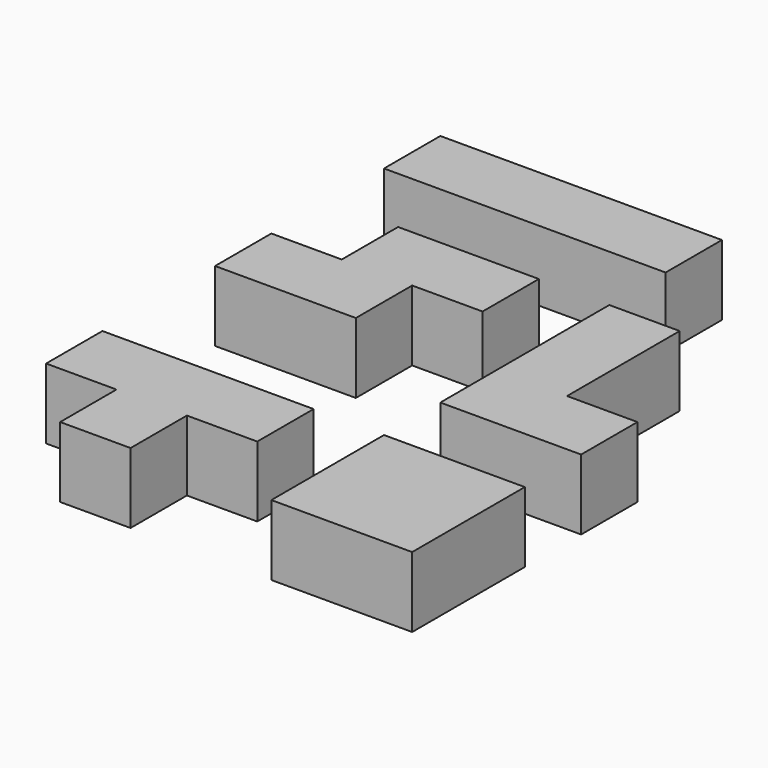
from build123d import *

# Parameters (mm, degrees)
BOX_W        = 40
BOX_H        = 10
BOX_DEPTH    = 10
BOX003_W     = 10
BOX003_H     = 10
BOX003_DEPTH = 10
BOX002_W     = 10
BOX002_H     = 10
BOX002_DEPTH = 10
BOX001_W     = 20
BOX001_H     = 10
BOX001_DEPTH = 10
BOX005_W     = 10
BOX005_H     = 10
BOX005_DEPTH = 10
BOX006_W     = 10
BOX006_H     = 10
BOX006_DEPTH = 10
BOX007_W     = 10
BOX007_H     = 10
BOX007_DEPTH = 10
BOX004_W     = 10
BOX004_H     = 10
BOX004_DEPTH = 10
BOX009_W     = 10
BOX009_H     = 10
BOX009_DEPTH = 10
BOX010_W     = 10
BOX010_H     = 10
BOX010_DEPTH = 10
BOX011_W     = 10
BOX011_H     = 10
BOX011_DEPTH = 10
BOX008_W     = 10
BOX008_H     = 10
BOX008_DEPTH = 10
BOX013_W     = 10
BOX013_H     = 10
BOX013_DEPTH = 10
BOX014_W     = 10
BOX014_H     = 10
BOX014_DEPTH = 10
BOX015_W     = 10
BOX015_H     = 10
BOX015_DEPTH = 10
BOX012_W     = 10
BOX012_H     = 10
BOX012_DEPTH = 10


with BuildPart() as obj1:
    # Box → Box (new body)
    with BuildSketch(Plane(origin=(0, 40, 0), x_dir=(1, 0, 0), z_dir=(0, 0, 1))):
        with Locations((20, 5)):
            Rectangle(BOX_W, BOX_H)
    extrude(amount=BOX_DEPTH)


with BuildPart() as cub002:
    # Box003 → Box003 (new body)
    with BuildSketch(Plane(origin=(20, 10, 0), x_dir=(1, 0, 0), z_dir=(0, 0, 1))):
        with Locations((5, 5)):
            Rectangle(BOX003_W, BOX003_H)
    extrude(amount=BOX003_DEPTH)


with BuildPart() as cub:
    # Box002 → Box002 (new body)
    with BuildSketch(Plane(origin=(10, 10, 0), x_dir=(1, 0, 0), z_dir=(0, 0, 1))):
        with Locations((5, 5)):
            Rectangle(BOX002_W, BOX002_H)
    extrude(amount=BOX002_DEPTH)


with BuildPart() as z:
    # Box001 → Box001 (new body)
    with BuildSketch(Plane.XY):
        with Locations((10, 5)):
            Rectangle(BOX001_W, BOX001_H)
    extrude(amount=BOX001_DEPTH)

    # Fusion: union Cub
    add(cub.part)

    # Fusion001: union Cub002
    add(cub002.part)


with BuildPart() as z_1:
    # Fusion001 placement: moved
    add(z.part.moved(Location((0, 10, 0))))


with BuildPart() as cub004:
    # Box005 → Box005 (new body)
    with BuildSketch(Plane(origin=(10, -20, 0), x_dir=(1, 0, 0), z_dir=(0, 0, 1))):
        with Locations((5, 5)):
            Rectangle(BOX005_W, BOX005_H)
    extrude(amount=BOX005_DEPTH)


with BuildPart() as cub005:
    # Box006 → Box006 (new body)
    with BuildSketch(Plane(origin=(20, -20, 0), x_dir=(1, 0, 0), z_dir=(0, 0, 1))):
        with Locations((5, 5)):
            Rectangle(BOX006_W, BOX006_H)
    extrude(amount=BOX006_DEPTH)


with BuildPart() as cub006:
    # Box007 → Box007 (new body)
    with BuildSketch(Plane(origin=(10, -30, 0), x_dir=(1, 0, 0), z_dir=(0, 0, 1))):
        with Locations((5, 5)):
            Rectangle(BOX007_W, BOX007_H)
    extrude(amount=BOX007_DEPTH)


with BuildPart() as fusion002:
    # Box004 → Box004 (new body)
    with BuildSketch(Plane(origin=(0, -20, 0), x_dir=(1, 0, 0), z_dir=(0, 0, 1))):
        with Locations((5, 5)):
            Rectangle(BOX004_W, BOX004_H)
    extrude(amount=BOX004_DEPTH)

    # Fusion002: union Cub004, Cub005, Cub006
    add(cub004.part)
    add(cub005.part)
    add(cub006.part)


with BuildPart() as cub008:
    # Box009 → Box009 (new body)
    with BuildSketch(Plane(origin=(40, 10, 0), x_dir=(1, 0, 0), z_dir=(0, 0, 1))):
        with Locations((5, 5)):
            Rectangle(BOX009_W, BOX009_H)
    extrude(amount=BOX009_DEPTH)


with BuildPart() as cub009:
    # Box010 → Box010 (new body)
    with BuildSketch(Plane(origin=(40, 0, 0), x_dir=(1, 0, 0), z_dir=(0, 0, 1))):
        with Locations((5, 5)):
            Rectangle(BOX010_W, BOX010_H)
    extrude(amount=BOX010_DEPTH)


with BuildPart() as cub010:
    # Box011 → Box011 (new body)
    with BuildSketch(Plane(origin=(50, 0, 0), x_dir=(1, 0, 0), z_dir=(0, 0, 1))):
        with Locations((5, 5)):
            Rectangle(BOX011_W, BOX011_H)
    extrude(amount=BOX011_DEPTH)


with BuildPart() as l:
    # Box008 → Box008 (new body)
    with BuildSketch(Plane(origin=(40, 20, 0), x_dir=(1, 0, 0), z_dir=(0, 0, 1))):
        with Locations((5, 5)):
            Rectangle(BOX008_W, BOX008_H)
    extrude(amount=BOX008_DEPTH)

    # Fusion003: union Cub008, Cub009, Cub010
    add(cub008.part)
    add(cub009.part)
    add(cub010.part)


with BuildPart() as cub012:
    # Box013 → Box013 (new body)
    with BuildSketch(Plane(origin=(40, -30, 0), x_dir=(1, 0, 0), z_dir=(0, 0, 1))):
        with Locations((5, 5)):
            Rectangle(BOX013_W, BOX013_H)
    extrude(amount=BOX013_DEPTH)


with BuildPart() as cub013:
    # Box014 → Box014 (new body)
    with BuildSketch(Plane(origin=(40, -40, 0), x_dir=(1, 0, 0), z_dir=(0, 0, 1))):
        with Locations((5, 5)):
            Rectangle(BOX014_W, BOX014_H)
    extrude(amount=BOX014_DEPTH)


with BuildPart() as cub014:
    # Box015 → Box015 (new body)
    with BuildSketch(Plane(origin=(50, -40, 0), x_dir=(1, 0, 0), z_dir=(0, 0, 1))):
        with Locations((5, 5)):
            Rectangle(BOX015_W, BOX015_H)
    extrude(amount=BOX015_DEPTH)


with BuildPart() as fusion004:
    # Box012 → Box012 (new body)
    with BuildSketch(Plane(origin=(50, -30, 0), x_dir=(1, 0, 0), z_dir=(0, 0, 1))):
        with Locations((5, 5)):
            Rectangle(BOX012_W, BOX012_H)
    extrude(amount=BOX012_DEPTH)

    # Fusion004: union Cub012, Cub013, Cub014
    add(cub012.part)
    add(cub013.part)
    add(cub014.part)


with BuildPart() as fusion004_1:
    # Fusion004 placement: moved
    add(fusion004.part.moved(Location((0, 10, 0))))


solid = Compound([obj1.part, z_1.part, fusion002.part, l.part, fusion004_1.part])
